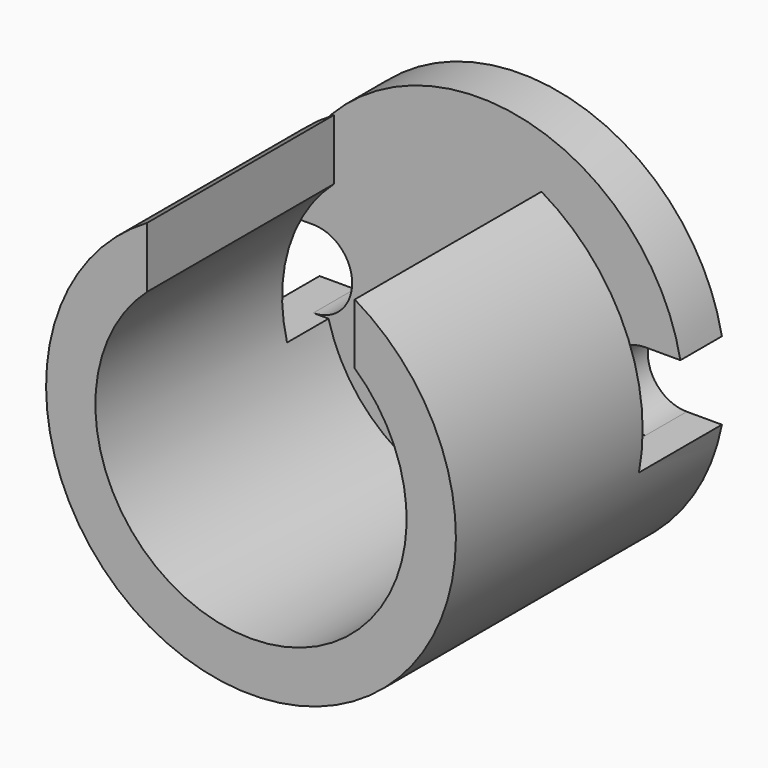
from build123d import *

# Parameters (mm, degrees)
F4_R      = 3.95
F4_R_2    = 3
F5_DEPTH  = 6.5
F6_DEPTH  = 1
F7_W      = 4
F7_H      = 5.5
F8_DEPTH  = 3.951
F10_DEPTH = 1.5
F12_W     = 1
F12_H     = 4.7
F13_DEPTH = 7.901


with BuildPart() as f5:
    # F4 (on Front) → F5 (new body)
    with BuildSketch(Plane.XZ):
        Circle(F4_R)
        Circle(F4_R_2, mode=Mode.SUBTRACT)
    extrude(amount=F5_DEPTH)

    # F4 (on Front) → F6 (join)
    with BuildSketch(Plane.XZ):
        Circle(F4_R_2)
    extrude(amount=F6_DEPTH)

    # F7 (on Top) → F8 (cut, through all)
    with BuildSketch(Plane.XY):
        with Locations((0, -3.75)):
            Rectangle(F7_W, F7_H)
    extrude(amount=F8_DEPTH, mode=Mode.SUBTRACT)

    # F9 (on face) → F10 (cut)
    with BuildSketch(Plane(origin=(0, 0, 0), x_dir=(-1, 0, 0), z_dir=(0, 1, 0))):
        with BuildLine():
            Line((-3.2, 0.75), (-3.8781438859, 0.75))
            ThreePointArc((-3.8781438859, 0.75), (-3.95, 0), (-3.8781438859, -0.75))
            Line((-3.8781438859, -0.75), (-3.2, -0.75))
            ThreePointArc((-3.2, -0.75), (-2.45, 0), (-3.2, 0.75))
        make_face()
        with BuildLine():
            ThreePointArc((3.95, 0), (3.9319949357, 0.3767171688), (3.8781438859, 0.75))
            Line((3.8781438859, 0.75), (3.2, 0.75))
            ThreePointArc((3.2, 0.75), (2.45, 0), (3.2, -0.75))
            Line((3.2, -0.75), (3.8781438859, -0.75))
            ThreePointArc((3.8781438859, -0.75), (3.9319949357, -0.3767171688), (3.95, 0))
        make_face()
    extrude(amount=-F10_DEPTH, mode=Mode.SUBTRACT)

    # F12 (on offset) → F13 (cut, through all)
    with BuildSketch(Plane.YZ.offset(3.95)):
        with Locations((-1.5, 1.6)):
            Rectangle(F12_W, F12_H)
    extrude(amount=-F13_DEPTH, mode=Mode.SUBTRACT)


solid = f5.part
